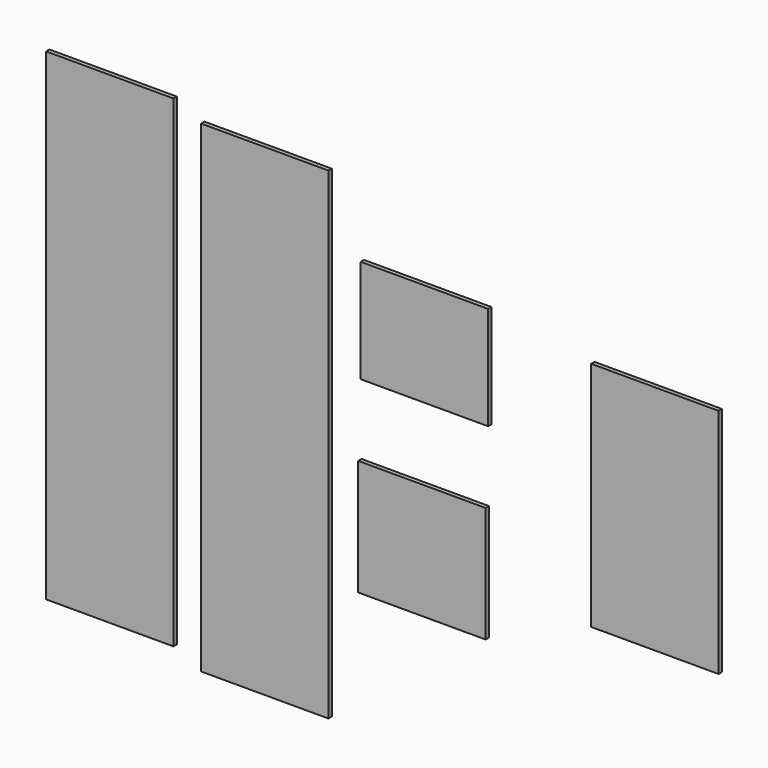
from build123d import *

# Parameters (mm, degrees)
F0_W     = 550
F0_H     = 2082
F1_DEPTH = 18
F2_W     = 550
F2_H     = 2082
F3_DEPTH = 18
F4_W     = 550
F4_H     = 446
F5_DEPTH = 18
F6_W     = 550
F6_H     = 500
F7_DEPTH = 18
F8_W     = 550
F8_H     = 1000
F9_DEPTH = 18


with BuildPart() as f1:
    # F0 (on Front) → F1 (new body)
    with BuildSketch(Plane.XZ):
        with Locations((-31.67528, 67.549608)):
            Rectangle(F0_W, F0_H)
    extrude(amount=F1_DEPTH)


with BuildPart() as f3:
    # F2 (on Front) → F3 (new body)
    with BuildSketch(Plane.XZ):
        with Locations((-700.226709, 124.017221)):
            Rectangle(F2_W, F2_H)
    extrude(amount=F3_DEPTH)


with BuildPart() as f5:
    # F4 (on Front) → F5 (new body)
    with BuildSketch(Plane.XZ):
        with Locations((657.768399, 584.084063)):
            Rectangle(F4_W, F4_H)
    extrude(amount=F5_DEPTH)


with BuildPart() as f7:
    # F6 (on face) → F7 (new body)
    with BuildSketch(Plane.XZ.offset(18)):
        with Locations((661.103949, -190.731074)):
            Rectangle(F6_W, F6_H)
    extrude(amount=F7_DEPTH)


with BuildPart() as f9:
    # F8 (on Front) → F9 (new body)
    with BuildSketch(Plane.XZ):
        with Locations((1652.260423, 243.245743)):
            Rectangle(F8_W, F8_H)
    extrude(amount=F9_DEPTH)


solid = Compound([f1.part, f3.part, f5.part, f7.part, f9.part])
